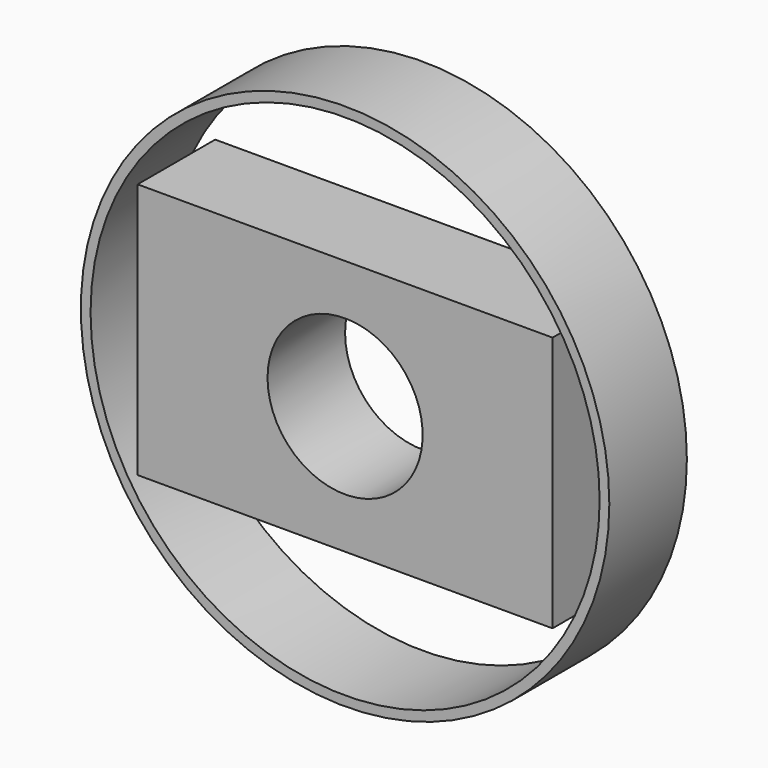
from build123d import *

# Parameters (mm, degrees)
F0_R     = 68.136749
F1_DEPTH = 25
F2_T     = -2.5
F3_W     = 107
F3_H     = 66
F4_DEPTH = 25
F6_D     = 40


with BuildPart() as f1:
    # F0 (on Front) → F1 (new body)
    with BuildSketch(Plane.XZ):
        Circle(F0_R)
    extrude(amount=F1_DEPTH)

    # F2
    f2_openings = [f1.faces().sort_by_distance(p)[0] for p in [
        (0, -25, 0),
        (0, 0, 0),
    ]]
    offset(amount=F2_T, openings=f2_openings)


with BuildPart() as f4:
    # F3 (on Front) → F4 (new body)
    with BuildSketch(Plane.XZ):
        Rectangle(F3_W, F3_H)
    extrude(amount=F4_DEPTH)

    # F6 (through all)
    with Locations(Plane(origin=(0, 0, 0), x_dir=(1, 0, 0), z_dir=(0, 1, 0))):
        with Locations((0, 0)):
            Hole(F6_D / 2)


solid = Compound([f1.part, f4.part])
